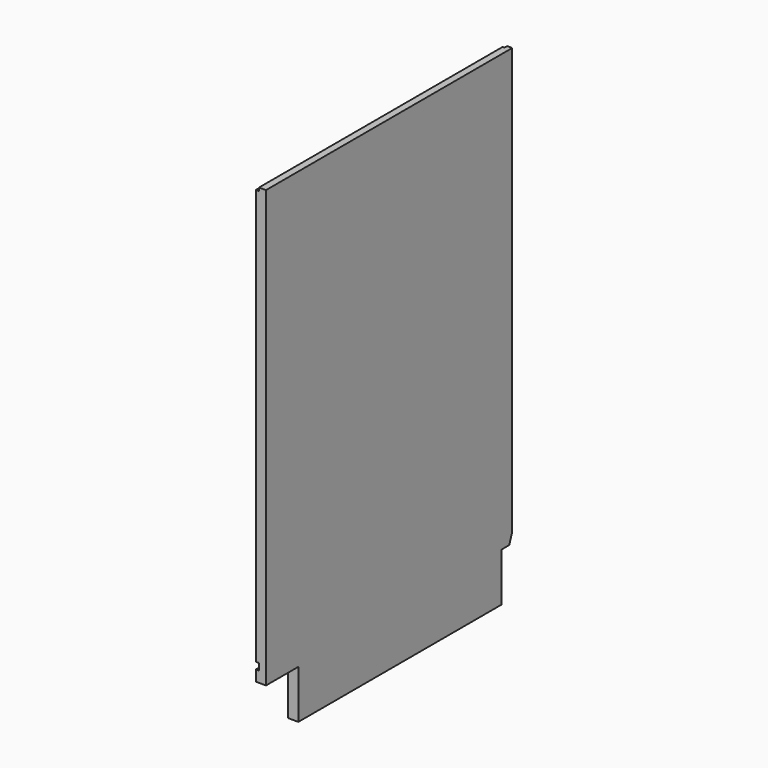
from build123d import *

# Parameters (mm, degrees)
F1_DEPTH = 19
F2_W     = 6
F2_H     = 12.5
F3_DEPTH = 571.001
F4_W     = 9.5
F4_H     = 6
F5_DEPTH = 899.001
F7_DEPTH = 19.001
F8_W     = 6
F8_H     = 6
F9_DEPTH = 571.001


with BuildPart() as f1:
    # F0 (on Right) → F1 (new body)
    with BuildSketch(Plane.YZ):
        Polygon((-496, 0), (0, 0), (0, 899), (-571, 899), (-571, 90), (-496, 90), align=None)
    extrude(amount=-F1_DEPTH)

    # F2 (on Front) → F3 (cut, through all)
    with BuildSketch(Plane.XZ):
        with Locations((-16, 116.25)):
            Rectangle(F2_W, F2_H)
    extrude(amount=F3_DEPTH, mode=Mode.SUBTRACT)

    # F4 (on Top) → F5 (cut, through all)
    with BuildSketch(Plane.XY):
        with Locations((-14.25, -3)):
            Rectangle(F4_W, F4_H)
    extrude(amount=F5_DEPTH, mode=Mode.SUBTRACT)

    # F6 (on Right) → F7 (cut, through all)
    with BuildSketch(Plane.YZ):
        Polygon((-25, 0), (0, 0), (0, 109), (-6.915434, 90), (-25, 90), align=None)
    extrude(amount=-F7_DEPTH, mode=Mode.SUBTRACT)

    # F8 (on Front) → F9 (cut, through all)
    with BuildSketch(Plane.XZ):
        with Locations((-16, 896)):
            Rectangle(F8_W, F8_H)
    extrude(amount=F9_DEPTH, mode=Mode.SUBTRACT)


solid = f1.part
